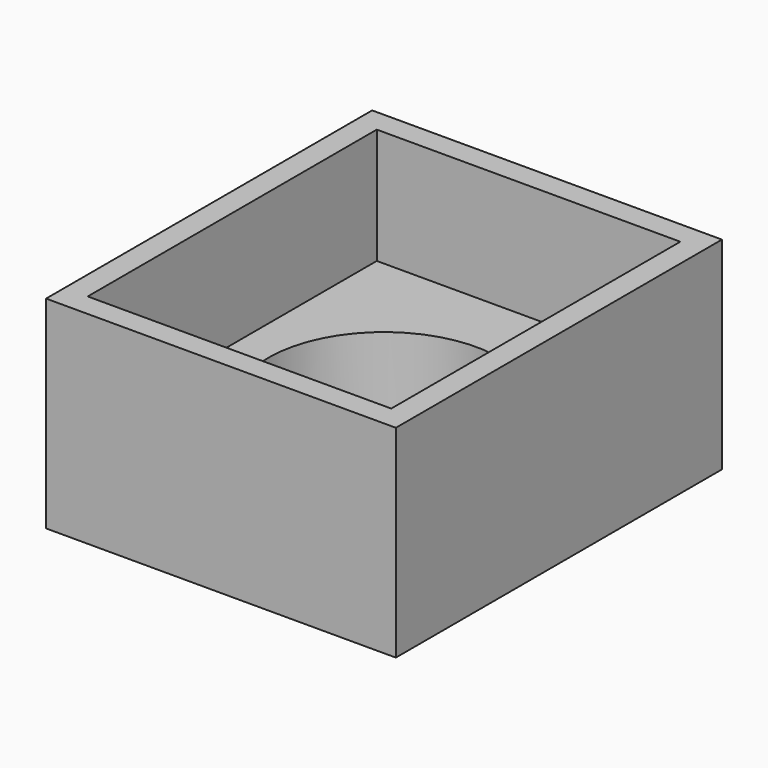
from build123d import *

# Parameters (mm, degrees)
SKETCH_W      = 12.1
SKETCH_H      = 14.1
PAD_DEPTH     = 3
SKETCH001_W   = 12.1
SKETCH001_H   = 14.1
SKETCH001_W_2 = 10.5
SKETCH001_H_2 = 12.5
PAD001_DEPTH  = 4
SKETCH002_R   = 4
POCKET_DEPTH  = 5


with BuildPart() as part:
    # Sketch → Pad (new body)
    with BuildSketch(Plane.XY):
        Rectangle(SKETCH_W, SKETCH_H)
    extrude(amount=PAD_DEPTH)

    # Sketch001 (on Face6 of Pad) → Pad001 (join)
    with BuildSketch(Plane.XY.offset(3)):
        Rectangle(SKETCH001_W, SKETCH001_H)
        Rectangle(SKETCH001_W_2, SKETCH001_H_2, mode=Mode.SUBTRACT)
    extrude(amount=PAD001_DEPTH)

    # Sketch002 (on Face6 of Pad001) → Pocket (cut)
    with BuildSketch(Plane.XY.offset(3)):
        Circle(SKETCH002_R)
    extrude(amount=-POCKET_DEPTH, mode=Mode.SUBTRACT)


solid = part.part
